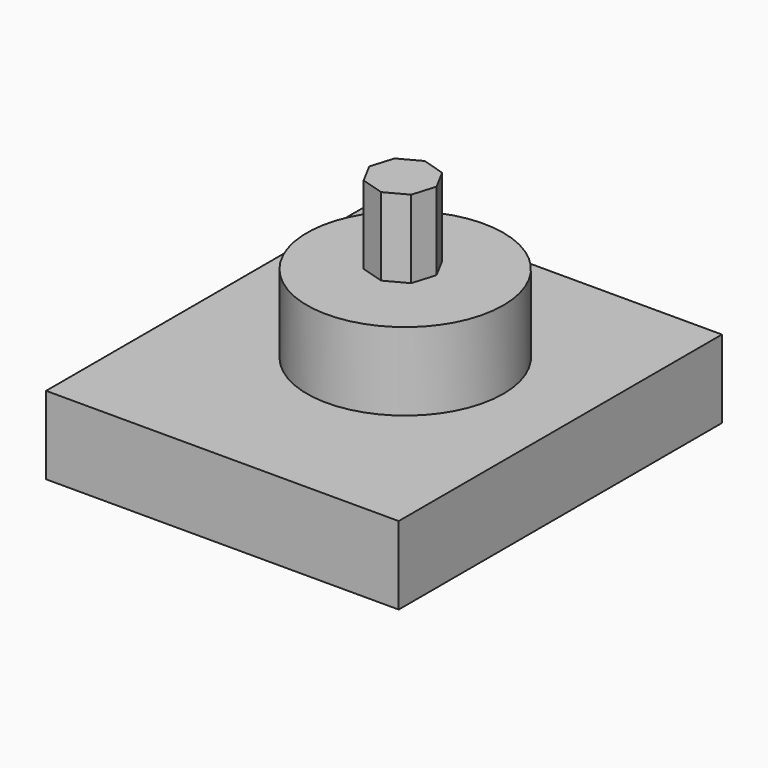
from build123d import *

# Parameters (mm, degrees)
F0_W     = 114.950902
F0_H     = 131.703299
F1_DEPTH = 25.4
F2_R     = 32.016322
F3_DEPTH = 25.4
F5_DEPTH = 25.4


with BuildPart() as f1:
    # F0 (on Top) → F1 (new body)
    with BuildSketch(Plane.XY):
        with Locations((2.984099, -11.373715)):
            Rectangle(F0_W, F0_H)
    extrude(amount=F1_DEPTH)

    # F2 (on face) → F3 (join)
    with BuildSketch(Plane.XY.offset(25.4)):
        with Locations((5.44278, -5.808717)):
            Circle(F2_R)
    extrude(amount=F3_DEPTH)

    # F4 (on face) → F5 (join)
    with BuildSketch(Plane.XY.offset(50.8)):
        Polygon((13.768743, -3.445501), (10.075767, 3.445501), (2.591765, 5.706847), (-4.299238, 2.013872), (-6.560584, -5.470131), (-2.867608, -12.361133), (4.616394, -14.622479), (11.507397, -10.929504), align=None)
        Polygon((13.768743, -3.445501), (10.075767, 3.445501), (2.591765, 5.706847), (-4.299238, 2.013872), (-6.560584, -5.470131), (-2.867608, -12.361133), (4.616394, -14.622479), (11.507397, -10.929504), align=None)
    extrude(amount=F5_DEPTH)


solid = f1.part
